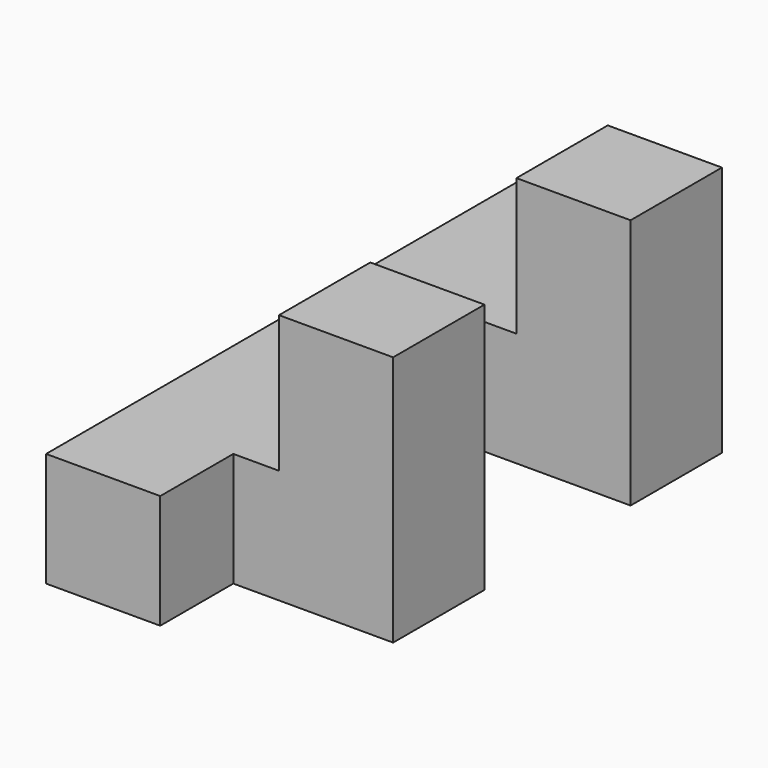
from build123d import *

# Parameters (mm, degrees)
F1_DEPTH = 63.5
F2_W     = 63.5
F2_H     = 63.5
F3_DEPTH = 76.2


with BuildPart() as f1:
    # F0 (on Top) → F1 (new body)
    with BuildSketch(Plane.XY):
        Polygon((63.5, 0), (0, 0), (0, -330.2), (63.5, -330.2), (63.5, -279.4), (152.4, -279.4), (152.4, -215.9), (63.5, -215.9), (63.5, -114.3), (152.4, -114.3), (152.4, -50.8), (63.5, -50.8), align=None)
    extrude(amount=F1_DEPTH)

    # F2 (on face) → F3 (join)
    with BuildSketch(Plane.XY.offset(63.5)):
        with Locations((120.65, -82.55)):
            Rectangle(F2_W, F2_H)
        with Locations((120.65, -247.65)):
            Rectangle(F2_W, F2_H)
    extrude(amount=F3_DEPTH)


solid = f1.part
